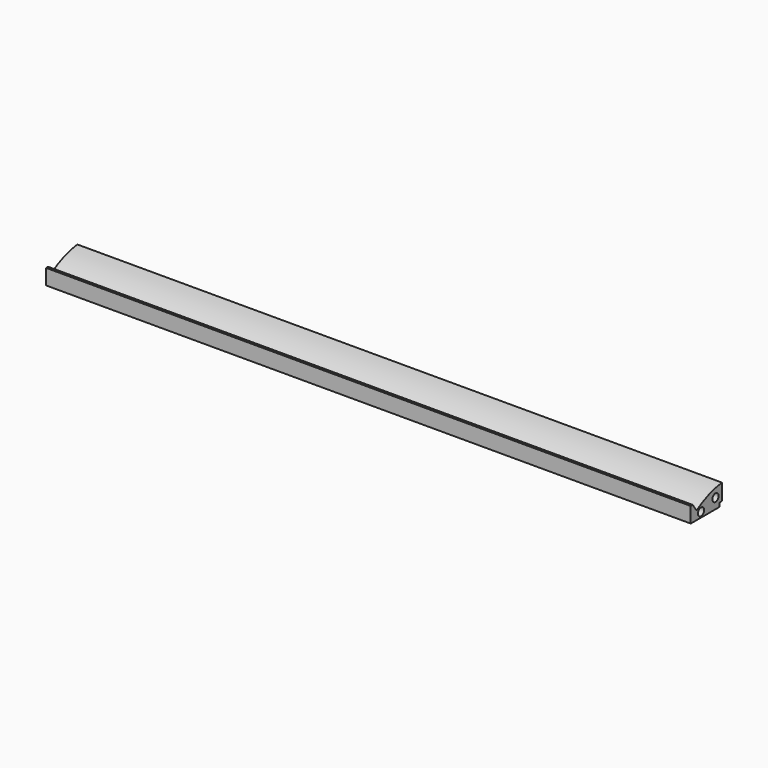
from build123d import *

# Parameters (mm, degrees)
PAD_DEPTH       = 250
SKETCH001_R     = 1.5
POCKET_DEPTH    = 10
SKETCH002_R     = 1.5
POCKET001_DEPTH = 10


with BuildPart() as part:
    # Sketch → Pad (new body)
    with BuildSketch(Plane.YZ):
        with BuildLine():
            Line((0, 0), (14, 0))
            Line((14, 0), (14, 1.524))
            Line((14, 1.524), (15.121, 1.524))
            Line((15.121, 1.524), (15.121, 7.862))
            ThreePointArc((15.121, 7.862), (8.692711, 6.292749), (2.787425, 3.307276))
            Line((0.963795, 6), (2.787425, 3.307276))
            Line((0, 6), (0.963795, 6))
            Line((0, 0), (0, 6))
        make_face()
    extrude(amount=PAD_DEPTH)

    # Sketch001 (on Face10 of Pad) → Pocket (cut)
    with BuildSketch(Plane.YZ.offset(250)):
        with Locations((12, 4)):
            Circle(SKETCH001_R)
        with Locations((5, 2)):
            Circle(SKETCH001_R)
    extrude(amount=-POCKET_DEPTH, mode=Mode.SUBTRACT)

    # Sketch002 (on Face4 of Pocket) → Pocket001 (cut)
    with BuildSketch(Plane(origin=(0, 0, 0), x_dir=(0, 1, 0), z_dir=(-1, 0, 0))):
        with Locations((12, -4)):
            Circle(SKETCH002_R)
        with Locations((5, -2)):
            Circle(SKETCH002_R)
    extrude(amount=-POCKET001_DEPTH, mode=Mode.SUBTRACT)


solid = part.part
